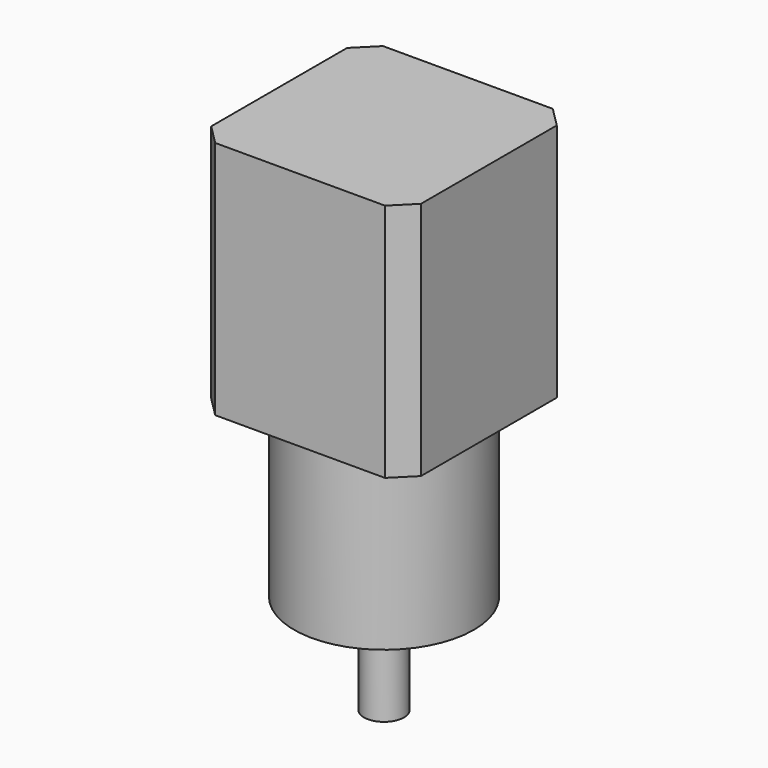
from build123d import *

# Parameters (mm, degrees)
SKETCH_W     = 42
SKETCH_H     = 42
PAD_DEPTH    = 48
CHAMFER_SIZE = 4
SKETCH005_R  = 18
PAD003_DEPTH = 35
SKETCH001_R  = 11
PAD001_DEPTH = 2
SKETCH002_R  = 4
PAD002_DEPTH = 20
POCKET_DEPTH = 15
SKETCH004_R  = 1.25
HOLE_DEPTH   = 4.5
HOLE_TIPS_R  = 1.25


with BuildPart() as part:
    # Sketch → Pad (new body)
    with BuildSketch(Plane.XY):
        Rectangle(SKETCH_W, SKETCH_H)
    extrude(amount=PAD_DEPTH)

    # Chamfer
    chamfer_edges = [part.edges().sort_by_distance(p)[0] for p in [
        (21, -21, 24),
        (-21, -21, 24),
        (21, 21, 24),
        (-21, 21, 24),
    ]]
    chamfer(chamfer_edges, length=CHAMFER_SIZE)

    # Sketch005 → Pad003 (join)
    with BuildSketch(Plane.XY):
        Circle(SKETCH005_R)
    extrude(amount=-PAD003_DEPTH)

    # Sketch001 → Pad001 (join)
    with BuildSketch(Plane.XY.offset(-35)):
        Circle(SKETCH001_R)
    extrude(amount=-PAD001_DEPTH)

    # Sketch002 (on Sketch) → Pad002 (join)
    with BuildSketch(Plane.XY.offset(-35)):
        Circle(SKETCH002_R)
    extrude(amount=-PAD002_DEPTH)

    # Sketch003 (on Sketch) → Pocket (cut)
    with BuildSketch(Plane.XY.offset(-40)):
        with BuildLine():
            ThreePointArc((10.583005, 3), (0, 11), (-10.583005, 3))
            Line((-10.583005, 3), (10.583005, 3))
        make_face()
    extrude(amount=-POCKET_DEPTH, mode=Mode.SUBTRACT)

    # Sketch004 (on Sketch) → Hole (cut)
    with BuildSketch(Plane.XY.offset(-35)):
        with Locations((9.899495, 9.899495)):
            Circle(SKETCH004_R)
        with Locations((-9.899495, 9.899495)):
            Circle(SKETCH004_R)
        with Locations((-9.899495, -9.899495)):
            Circle(SKETCH004_R)
        with Locations((9.899495, -9.899495)):
            Circle(SKETCH004_R)
    extrude(amount=HOLE_DEPTH, mode=Mode.SUBTRACT)

    # Hole tips → Hole tip 1 section 0
    with BuildSketch(Plane.XY.offset(-30.5), mode=Mode.PRIVATE) as hole_tip_1_s0:
        with Locations((9.899495, 9.899495)):
            Circle(HOLE_TIPS_R)
    loft([hole_tip_1_s0.sketch, Vertex(9.899495, 9.899495, -29.748924)], mode=Mode.SUBTRACT)

    # Hole tips → Hole tip 2 section 0
    with BuildSketch(Plane.XY.offset(-30.5), mode=Mode.PRIVATE) as hole_tip_2_s0:
        with Locations((-9.899495, 9.899495)):
            Circle(HOLE_TIPS_R)
    loft([hole_tip_2_s0.sketch, Vertex(-9.899495, 9.899495, -29.748924)], mode=Mode.SUBTRACT)

    # Hole tips → Hole tip 3 section 0
    with BuildSketch(Plane.XY.offset(-30.5), mode=Mode.PRIVATE) as hole_tip_3_s0:
        with Locations((-9.899495, -9.899495)):
            Circle(HOLE_TIPS_R)
    loft([hole_tip_3_s0.sketch, Vertex(-9.899495, -9.899495, -29.748924)], mode=Mode.SUBTRACT)

    # Hole tips → Hole tip 4 section 0
    with BuildSketch(Plane.XY.offset(-30.5), mode=Mode.PRIVATE) as hole_tip_4_s0:
        with Locations((9.899495, -9.899495)):
            Circle(HOLE_TIPS_R)
    loft([hole_tip_4_s0.sketch, Vertex(9.899495, -9.899495, -29.748924)], mode=Mode.SUBTRACT)


solid = part.part
